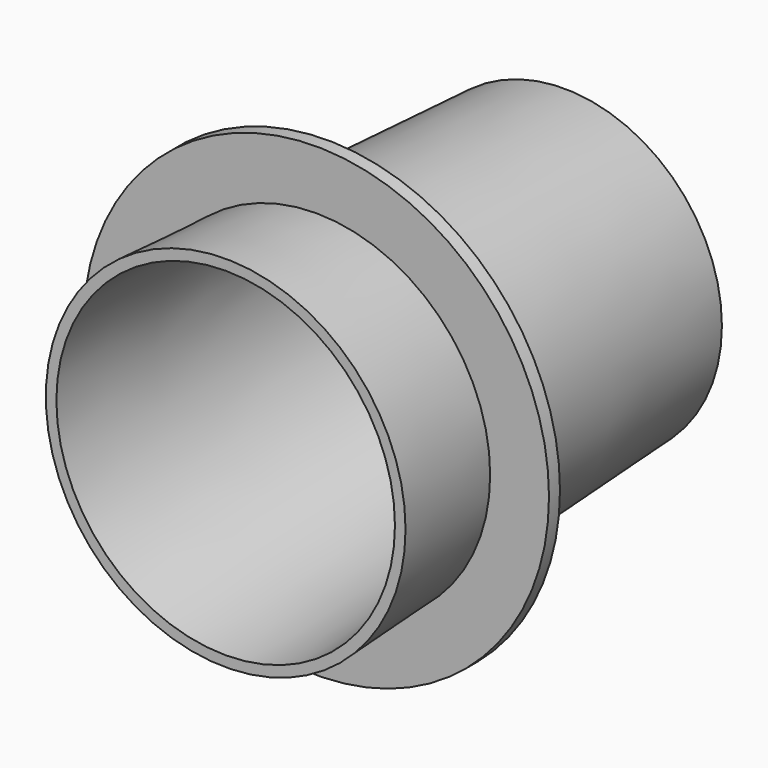
from build123d import *

# Parameters (mm, degrees)
F0_R     = 107.95
F1_DEPTH = 254
F1_TAPER = 3
F2_R     = 101.6
F3_DEPTH = 241.3
F3_TAPER = 3
F6_R     = 139.7
F6_R_2   = 103.9495
F7_DEPTH = 8.255


with BuildPart() as f1:
    # F0 (on Front) → F1 (new body)
    with BuildSketch(Plane.XZ):
        Circle(F0_R)
    extrude(amount=-F1_DEPTH, taper=F1_TAPER)

    # F2 (on face) → F3 (cut)
    with BuildSketch(Plane.XZ):
        Circle(F2_R)
    extrude(amount=-F3_DEPTH, taper=F3_TAPER, mode=Mode.SUBTRACT)

    # F6 (on offset) → F7 (join)
    with BuildSketch(Plane.XZ.offset(-76.2)):
        Circle(F6_R)
        Circle(F6_R_2, mode=Mode.SUBTRACT)
    extrude(amount=F7_DEPTH)


solid = f1.part
